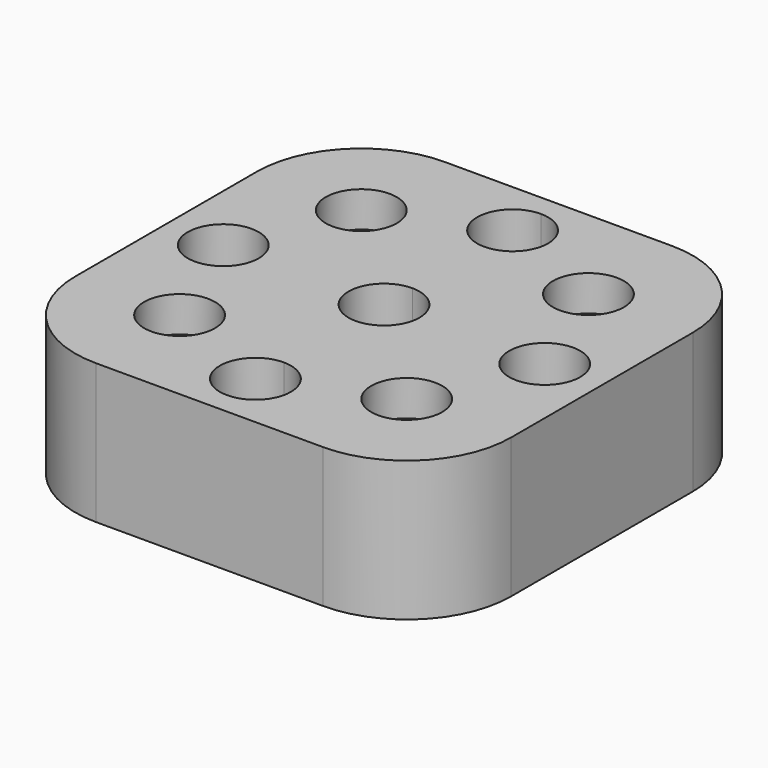
from build123d import *

# Parameters (mm, degrees)
F0_R     = 3.429
F0_R_2   = 2.159
F1_DEPTH = 8.509
F2_DEPTH = 6.35


with BuildPart() as f1:
    # F0 (on Top) → F1 (new body)
    with BuildSketch(Plane.XY):
        with BuildLine():
            Line((0, 11.938), (0, 13.2588))
            Line((0, 13.2588), (-6.9088, 13.2588))
            ThreePointArc((-6.9088, 13.2588), (-11.398928, 11.398928), (-13.2588, 6.9088))
            Line((-13.2588, 6.9088), (-13.2588, -6.9088))
            ThreePointArc((-13.2588, -6.9088), (-11.398928, -11.398928), (-6.9088, -13.2588))
            Line((-6.9088, -13.2588), (0, -13.2588))
            Line((0, -13.2588), (0, -11.938))
            ThreePointArc((0, -11.938), (-2.159, -9.779), (0, -7.62))
            Line((0, -7.62), (0, -2.159))
            ThreePointArc((0, -2.159), (-2.159, 0), (0, 2.159))
            Line((0, 2.159), (0, 7.62))
            ThreePointArc((0, 7.62), (-2.159, 9.779), (0, 11.938))
        make_face()
        with Locations((-6.9088, -6.9088)):
            Circle(F0_R, mode=Mode.SUBTRACT)
        with Locations((-9.779, 0)):
            Circle(F0_R_2, mode=Mode.SUBTRACT)
        with Locations((-6.9088, 6.9088)):
            Circle(F0_R, mode=Mode.SUBTRACT)
        with BuildLine():
            ThreePointArc((13.2588, 6.9088), (11.398928, 11.398928), (6.9088, 13.2588))
            Line((6.9088, 13.2588), (0, 13.2588))
            Line((0, 13.2588), (0, 11.938))
            ThreePointArc((0, 11.938), (1.526644, 11.305644), (2.159, 9.779))
            ThreePointArc((2.159, 9.779), (1.526644, 8.252356), (0, 7.62))
            Line((0, 7.62), (0, 2.159))
            ThreePointArc((0, 2.159), (1.526644, 1.526644), (2.159, 0))
            ThreePointArc((2.159, 0), (1.526644, -1.526644), (0, -2.159))
            Line((0, -2.159), (0, -7.62))
            ThreePointArc((0, -7.62), (1.526644, -8.252356), (2.159, -9.779))
            ThreePointArc((2.159, -9.779), (1.526644, -11.305644), (0, -11.938))
            Line((0, -11.938), (0, -13.2588))
            Line((0, -13.2588), (6.9088, -13.2588))
            ThreePointArc((6.9088, -13.2588), (11.398928, -11.398928), (13.2588, -6.9088))
            Line((13.2588, -6.9088), (13.2588, 6.9088))
        make_face()
        with Locations((6.9088, -6.9088)):
            Circle(F0_R, mode=Mode.SUBTRACT)
        with Locations((9.779, 0)):
            Circle(F0_R_2, mode=Mode.SUBTRACT)
        with Locations((6.9088, 6.9088)):
            Circle(F0_R, mode=Mode.SUBTRACT)
        with Locations((-6.9088, 6.9088)):
            Circle(F0_R)
        with Locations((-6.9088, 6.9088)):
            Circle(F0_R_2, mode=Mode.SUBTRACT)
        with Locations((-6.9088, -6.9088)):
            Circle(F0_R)
        with Locations((-6.9088, -6.9088)):
            Circle(F0_R_2, mode=Mode.SUBTRACT)
        with Locations((6.9088, -6.9088)):
            Circle(F0_R)
        with Locations((6.9088, -6.9088)):
            Circle(F0_R_2, mode=Mode.SUBTRACT)
        with Locations((6.9088, 6.9088)):
            Circle(F0_R)
        with Locations((6.9088, 6.9088)):
            Circle(F0_R_2, mode=Mode.SUBTRACT)
    extrude(amount=F1_DEPTH)

    # F0 (on Top) → F2 (cut)
    with BuildSketch(Plane.XY):
        with Locations((-6.9088, -6.9088)):
            Circle(F0_R)
        with Locations((-6.9088, -6.9088)):
            Circle(F0_R_2, mode=Mode.SUBTRACT)
        with Locations((6.9088, -6.9088)):
            Circle(F0_R)
        with Locations((6.9088, -6.9088)):
            Circle(F0_R_2, mode=Mode.SUBTRACT)
        with Locations((6.9088, 6.9088)):
            Circle(F0_R)
        with Locations((6.9088, 6.9088)):
            Circle(F0_R_2, mode=Mode.SUBTRACT)
        with Locations((-6.9088, 6.9088)):
            Circle(F0_R)
        with Locations((-6.9088, 6.9088)):
            Circle(F0_R_2, mode=Mode.SUBTRACT)
    extrude(amount=F2_DEPTH, mode=Mode.SUBTRACT)


solid = f1.part
